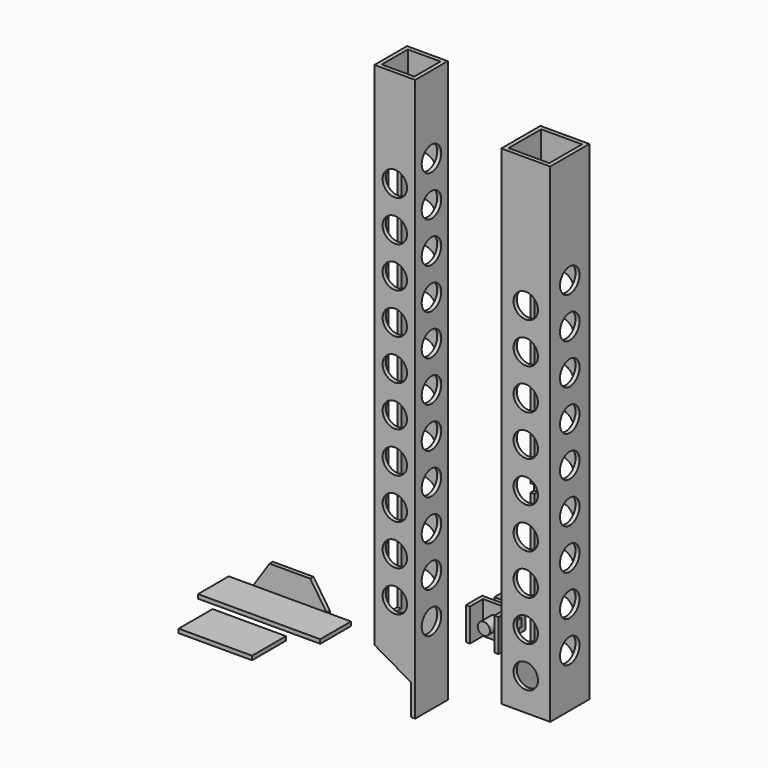
from build123d import *

# Parameters (mm, degrees)
F0_W      = 19.05
F0_H      = 19.05
F0_W_2    = 15.875
F0_H_2    = 15.875
F1_DEPTH  = 190.5
F2_R      = 4.7625
F3_DEPTH  = 19.051
F4_R      = 4.7625
F5_DEPTH  = 1.5875
F6_W      = 9.525
F6_H      = 136.525
F7_DEPTH  = 1.5875
F8_W      = 1.5875
F8_H      = 3.175
F9_DEPTH  = 1.5875
F10_W     = 15.875
F10_H     = 15.875
F10_W_2   = 12.7
F10_H_2   = 12.7
F11_DEPTH = 219.075
F12_R     = 4.7625
F13_DEPTH = 43.043458688
F14_R     = 4.7625
F15_DEPTH = 1.5875
F16_W     = 6.35
F16_H     = 177.8
F17_DEPTH = 1.5875
F19_DEPTH = 15.875
F20_W     = 3.175
F20_H     = 3.175
F21_DEPTH = 1.5875
F23_DEPTH = 12.7
F24_R     = 2.38125
F25_DEPTH = 5.55625
F26_W     = 12.7
F26_H     = 3.175
F27_DEPTH = 3.175
F28_W     = 7.62
F28_H     = 3.175
F29_DEPTH = 0.79375
F31_W     = 9.525
F31_H     = 9.525
F32_DEPTH = 3.175
F33_W     = 28.575
F33_H     = 16.51
F34_DEPTH = 1.5875
F35_W     = 28.575
F35_H     = 1.5875
F36_DEPTH = 1.5875
F37_W     = 28.575
F37_H     = 1.5875
F38_DEPTH = 9.525
F40_DEPTH = 1.5875


with BuildPart() as f1:
    # F0 (on Top) → F1 (new body)
    with BuildSketch(Plane.XY):
        with Locations((57.9107087106, -35.9344327786)):
            Rectangle(F0_W, F0_H)
        with Locations((57.9107087106, -35.9344327786)):
            Rectangle(F0_W_2, F0_H_2, mode=Mode.SUBTRACT)
    extrude(amount=F1_DEPTH)

    # F2 (on face) → F3 (cut, through all)
    with BuildSketch(Plane.XZ.offset(45.4594327786)):
        with Locations((57.9107087106, 139.7)):
            Circle(F2_R)
        with Locations((57.9107087106, 123.825)):
            Circle(F2_R)
        with Locations((57.9107087106, 107.95)):
            Circle(F2_R)
        with Locations((57.9107087106, 92.075)):
            Circle(F2_R)
        with Locations((57.9107087106, 76.2)):
            Circle(F2_R)
        with Locations((57.9107087106, 60.325)):
            Circle(F2_R)
        with Locations((57.9107087106, 44.45)):
            Circle(F2_R)
        with Locations((57.9107087106, 28.575)):
            Circle(F2_R)
        with Locations((57.9107087106, 12.7)):
            Circle(F2_R)
    extrude(amount=-F3_DEPTH, mode=Mode.SUBTRACT)

    # F4 (on face) → F5 (cut, through all)
    with BuildSketch(Plane.YZ.offset(67.4357087106)):
        with Locations((-35.9344327786, 147.6375)):
            Circle(F4_R)
        with Locations((-35.9344327786, 131.7625)):
            Circle(F4_R)
        with Locations((-35.9344327786, 115.8875)):
            Circle(F4_R)
        with Locations((-35.9344327786, 100.0125)):
            Circle(F4_R)
        with Locations((-35.9344327786, 84.1375)):
            Circle(F4_R)
        with Locations((-35.9344327786, 68.2625)):
            Circle(F4_R)
        with Locations((-35.9344327786, 52.3875)):
            Circle(F4_R)
        with Locations((-35.9344327786, 36.5125)):
            Circle(F4_R)
        with Locations((-35.9344327786, 20.6375)):
            Circle(F4_R)
    extrude(amount=-F5_DEPTH, mode=Mode.SUBTRACT)

    # F6 (on face) → F7 (cut, through all)
    with BuildSketch(Plane(origin=(48.3857087106, 0, 0), x_dir=(0, -1, 0), z_dir=(-1, 0, 0))):
        with Locations((35.9344327786, 84.1375)):
            Rectangle(F6_W, F6_H)
    extrude(amount=-F7_DEPTH, mode=Mode.SUBTRACT)

    # F8 (on face) → F9 (cut, through all)
    with BuildSketch(Plane(origin=(48.3857087106, 0, 0), x_dir=(0, -1, 0), z_dir=(-1, 0, 0))):
        with Locations((30.3781827786, 144.4625)):
            Rectangle(F8_W, F8_H)
        with Locations((30.3781827786, 106.3625)):
            Rectangle(F8_W, F8_H)
        with Locations((30.3781827786, 68.2625)):
            Rectangle(F8_W, F8_H)
        with Locations((30.3781827786, 30.1625)):
            Rectangle(F8_W, F8_H)
        with Locations((41.4906827786, 144.4625)):
            Rectangle(F8_W, F8_H)
        with Locations((41.4906827786, 106.3625)):
            Rectangle(F8_W, F8_H)
        with Locations((41.4906827786, 68.2625)):
            Rectangle(F8_W, F8_H)
        with Locations((41.4906827786, 30.1625)):
            Rectangle(F8_W, F8_H)
    extrude(amount=-F9_DEPTH, mode=Mode.SUBTRACT)


with BuildPart() as f11:
    # F10 (on Top) → F11 (new body)
    with BuildSketch(Plane.XY):
        with Locations((26.0914424434, -61.5143914666)):
            Rectangle(F10_W, F10_H)
        with Locations((26.0914424434, -61.5143914666)):
            Rectangle(F10_W_2, F10_H_2, mode=Mode.SUBTRACT)
    extrude(amount=F11_DEPTH)

    # F12 (on face) → F13 (cut, through all)
    with BuildSketch(Plane.XZ.offset(69.4518914666)):
        with Locations((26.0914424434, 38.1)):
            Circle(F12_R)
        with Locations((26.0914424434, 53.975)):
            Circle(F12_R)
        with Locations((26.0914424434, 69.85)):
            Circle(F12_R)
        with Locations((26.0914424434, 85.725)):
            Circle(F12_R)
        with Locations((26.0914424434, 101.6)):
            Circle(F12_R)
        with Locations((26.0914424434, 117.475)):
            Circle(F12_R)
        with Locations((26.0914424434, 133.35)):
            Circle(F12_R)
        with Locations((26.0914424434, 149.225)):
            Circle(F12_R)
        with Locations((26.0914424434, 165.1)):
            Circle(F12_R)
        with Locations((26.0914424434, 180.975)):
            Circle(F12_R)
    extrude(amount=-F13_DEPTH, mode=Mode.SUBTRACT)

    # F14 (on face) → F15 (cut, through all)
    with BuildSketch(Plane.YZ.offset(34.0289424434)):
        with Locations((-61.5143914666, 30.1625)):
            Circle(F14_R)
        with Locations((-61.5143914666, 46.0375)):
            Circle(F14_R)
        with Locations((-61.5143914666, 61.9125)):
            Circle(F14_R)
        with Locations((-61.5143914666, 77.7875)):
            Circle(F14_R)
        with Locations((-61.5143914666, 93.6625)):
            Circle(F14_R)
        with Locations((-61.5143914666, 109.5375)):
            Circle(F14_R)
        with Locations((-61.5143914666, 125.4125)):
            Circle(F14_R)
        with Locations((-61.5143914666, 141.2875)):
            Circle(F14_R)
        with Locations((-61.5143914666, 157.1625)):
            Circle(F14_R)
        with Locations((-61.5143914666, 173.0375)):
            Circle(F14_R)
        with Locations((-61.5143914666, 188.9125)):
            Circle(F14_R)
    extrude(amount=-F15_DEPTH, mode=Mode.SUBTRACT)

    # F16 (on face) → F17 (cut, through all)
    with BuildSketch(Plane(origin=(18.1539424434, 0, 0), x_dir=(0, -1, 0), z_dir=(-1, 0, 0))):
        with Locations((61.5143914666, 117.475)):
            Rectangle(F16_W, F16_H)
    extrude(amount=-F17_DEPTH, mode=Mode.SUBTRACT)

    # F18 (on face) → F19 (cut)
    with BuildSketch(Plane(origin=(0, -53.5768914666, 0), x_dir=(-1, 0, 0), z_dir=(0, 1, 0))):
        Polygon((-18.1539424434, 20.155141971), (-32.4414424434, 11.90625), (-32.4414424434, 0), (-18.1539424434, 0), align=None)
    extrude(amount=-F19_DEPTH, mode=Mode.SUBTRACT)

    # F20 (on face) → F21 (cut, through all)
    with BuildSketch(Plane(origin=(18.1539424434, 0, 0), x_dir=(0, -1, 0), z_dir=(-1, 0, 0))):
        with Locations((56.7518914666, 201.6125)):
            Rectangle(F20_W, F20_H)
        with Locations((66.2768914666, 201.6125)):
            Rectangle(F20_W, F20_H)
    extrude(amount=-F21_DEPTH, mode=Mode.SUBTRACT)


with BuildPart() as f23:
    # F22 (on Top) → F23 (new body)
    with BuildSketch(Plane.XY):
        Polygon((27.2506829351, -12.4694055617), (14.5506829351, -12.4694055617), (14.5506829351, -20.4069055617), (16.1381829351, -20.4069055617), (16.1381829351, -14.0569055617), (25.6631829351, -14.0569055617), (25.6631829351, -20.4069055617), (27.2506829351, -20.4069055617), align=None)
    extrude(amount=F23_DEPTH)

    # F24 (on face) → F25 (join)
    with BuildSketch(Plane.XZ.offset(14.0569055617)):
        with Locations((20.9006829351, 6.35)):
            Circle(F24_R)
    extrude(amount=F25_DEPTH)

    # F26 (on face) → F27 (join)
    with BuildSketch(Plane(origin=(0, -12.4694055617, 0), x_dir=(-1, 0, 0), z_dir=(0, 1, 0))):
        with Locations((-20.9006829351, 6.35)):
            Rectangle(F26_W, F26_H)
    extrude(amount=F27_DEPTH)

    # F28 (on face) → F29 (join)
    with BuildSketch(Plane(origin=(0, -9.2944055617, 0), x_dir=(-1, 0, 0), z_dir=(0, 1, 0))):
        with Locations((-20.9006829351, 6.35)):
            Rectangle(F28_W, F28_H)
    extrude(amount=F29_DEPTH)

    # F31 (on offset) → F32 (join)
    with BuildSketch(Plane(origin=(0, -8.5006555617, 0), x_dir=(-1, 0, 0), z_dir=(0, 1, 0))):
        with Locations((-20.9006829351, 6.35)):
            Rectangle(F31_W, F31_H)
    extrude(amount=F32_DEPTH)


with BuildPart() as f34:
    # F33 (on Top) → F34 (new body)
    with BuildSketch(Plane.XY):
        with Locations((-43.0363707095, -62.1827628863)):
            Rectangle(F33_W, F33_H)
    extrude(amount=F34_DEPTH)


with BuildPart() as f36:
    # F35 (on Top) → F36 (new body)
    with BuildSketch(Plane.XY):
        Polygon((-57.4300858438, -34.0159842982), (-66.9550858438, -34.0159842982), (-66.9550858438, -49.0019842982), (-19.3300858438, -49.0001365542), (-19.3300858438, -34.0159842982), (-28.8550858438, -34.0159842982), align=None)
        with Locations((-43.1425858438, -33.2222342982)):
            Rectangle(F35_W, F35_H)
    extrude(amount=F36_DEPTH)

    # F37 (on face) → F38 (join)
    with BuildSketch(Plane.XY.offset(1.5875)):
        with Locations((-43.1425858438, -33.2222342982)):
            Rectangle(F37_W, F37_H)
    extrude(amount=F38_DEPTH)

    # F39 (on face) → F40 (cut, through all)
    with BuildSketch(Plane.XZ.offset(34.0159842982)):
        Polygon((-57.4300858438, 11.1125), (-57.4300858438, 1.5875), (-51.0800858438, 11.1125), align=None)
        Polygon((-35.2050858438, 11.1125), (-28.8550858438, 1.5875), (-28.8550858438, 11.1125), align=None)
    extrude(amount=-F40_DEPTH, mode=Mode.SUBTRACT)


solid = Compound([f1.part, f11.part, f23.part, f34.part, f36.part])
